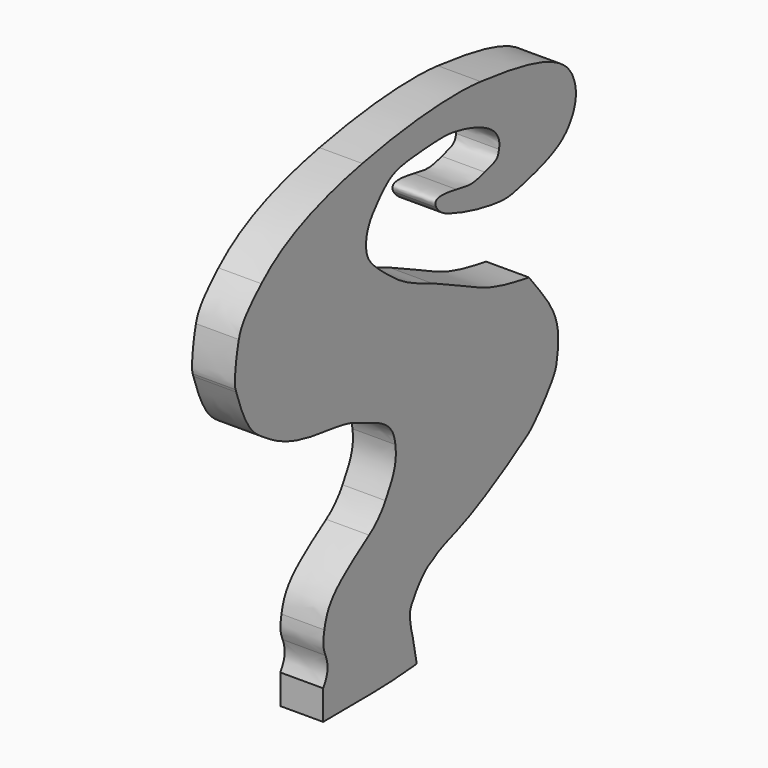
from build123d import *

# Parameters (mm, degrees)
F1_DEPTH = 2.54


with BuildPart() as f1:
    # F0 (on Right) → F1 (new body)
    with BuildSketch(Plane.YZ):
        with BuildLine():
            add(Edge.make_bspline(
                [(4.3062982129, 18.4064569529), (4.4145754331, 17.851669978), (4.5227315225, 17.2993939442), (4.6310087426, 16.7446069692)],
                knots=[0, 0, 0, 0, 1.6932756114, 1.6932756114, 1.6932756114, 1.6932756114], degree=3))
            add(Edge.make_bspline(
                [(4.1593257549, 19.1126760485), (4.2081809899, 18.7562347142), (4.274320241, 18.4384364203), (4.3062982129, 18.4064569529)],
                knots=[0, 0, 0, 0, 1, 1, 1, 1], degree=3))
            add(Edge.make_bspline(
                [(4.587080479, 20.5390156251), (4.1199305204, 19.8352235894), (4.0789979985, 19.6987369871), (4.1593257549, 19.1126760485)],
                knots=[0, 0, 0, 0, 1, 1, 1, 1], degree=3))
            add(Edge.make_bspline(
                [(5.5515264837, 21.5446767853), (5.3052015891, 21.4196091783), (4.8712005131, 20.9670619552), (4.587080479, 20.5390156251)],
                knots=[0, 0, 0, 0, 1, 1, 1, 1], degree=3))
            add(Edge.make_bspline(
                [(6.1705583504, 21.9085323912), (6.0764144472, 21.8334789664), (5.7978513782, 21.6697458878), (5.5515264837, 21.5446767853)],
                knots=[0, 0, 0, 0, 1, 1, 1, 1], degree=3))
            add(Edge.make_bspline(
                [(7.6551638138, 22.5023530426), (6.9327747869, 22.2508031651), (6.2647022536, 21.9835843206), (6.1705583504, 21.9085323912)],
                knots=[0, 0, 0, 0, 1, 1, 1, 1], degree=3))
            add(Edge.make_bspline(
                [(12.8379490604, 25.3474205293), (11.0188744075, 24.1153788353), (8.8182758107, 22.907369969), (7.6551638138, 22.5023530426)],
                knots=[0, 0, 0, 0, 1, 1, 1, 1], degree=3))
            add(Edge.make_bspline(
                [(14.1645862732, 26.7650134187), (13.7263112988, 26.182685038), (13.1293263476, 25.5447690602), (12.8379490604, 25.3474205293)],
                knots=[0, 0, 0, 0, 1, 1, 1, 1], degree=3))
            add(Edge.make_bspline(
                [(15.0707260149, 28.8437191762), (14.9687566007, 27.8920215914), (14.9081429111, 27.7529688556), (14.1645862732, 26.7650134187)],
                knots=[0, 0, 0, 0, 1, 1, 1, 1], degree=3))
            add(Edge.make_bspline(
                [(13.7717031507, 32.4500579966), (14.9154480174, 30.9995061424), (15.2131509134, 30.1730242108), (15.0707260149, 28.8437191762)],
                knots=[0, 0, 0, 0, 1, 1, 1, 1], degree=3))
            Line((13.7717031507, 32.4500579966), (12.9332459293, 33.5134287489))
            add(Edge.make_bspline(
                [(5.7822467141, 36.1096769875), (6.3762820613, 35.8425612862), (7.6581101579, 35.2661706512), (10.0985801685, 33.9916505274), (11.9792064067, 33.6743798154), (12.9332459293, 33.5134287489)],
                knots=[0, 0, 0, 0, 0.2985104209, 0.6441351452, 1, 1, 1, 1], degree=3))
            add(Edge.make_bspline(
                [(2.3612512264, 38.0030753022), (3.524023764, 37.060348717), (3.9435058477, 36.828180924), (5.7822467141, 36.1096769875)],
                knots=[0, 0, 0, 0, 1, 1, 1, 1], degree=3))
            add(Edge.make_bspline(
                [(0.8822565632, 40.104596619), (0.8822565632, 39.355544328), (1.1336105412, 38.9983941666), (2.3612512264, 38.0030753022)],
                knots=[0, 0, 0, 0, 1, 1, 1, 1], degree=3))
            add(Edge.make_bspline(
                [(1.8150057341, 42.0706138216), (1.1379322929, 41.3211757133), (0.8822565632, 40.7822712173), (0.8822565632, 40.104596619)],
                knots=[0, 0, 0, 0, 1, 1, 1, 1], degree=3))
            add(Edge.make_bspline(
                [(5.130764324, 43.3401306362), (3.05388746, 43.1938311152), (2.7112413368, 43.0626412758), (1.8150057341, 42.0706138216)],
                knots=[0, 0, 0, 0, 1, 1, 1, 1], degree=3))
            add(Edge.make_bspline(
                [(8.0668398269, 43.2044874484), (7.1214319611, 43.4407407174), (6.7817796603, 43.4564321157), (5.130764324, 43.3401306362)],
                knots=[0, 0, 0, 0, 1, 1, 1, 1], degree=3))
            add(Edge.make_bspline(
                [(10.7201501424, 41.0876351286), (10.9152779809, 41.9986469351), (10.0136334591, 42.7179927908), (8.0668398269, 43.2044874484)],
                knots=[0, 0, 0, 0, 1, 1, 1, 1], degree=3))
            add(Edge.make_bspline(
                [(9.665690573, 40.3289329193), (10.5618693499, 40.5852172833), (10.6217697262, 40.6283181582), (10.7201501424, 41.0876351286)],
                knots=[0, 0, 0, 0, 1, 1, 1, 1], degree=3))
            add(Edge.make_bspline(
                [(7.5720919693, 40.2786809659), (8.6570311041, 40.0685451343), (8.7641507304, 40.0711157541), (9.665690573, 40.3289329193)],
                knots=[0, 0, 0, 0, 1, 1, 1, 1], degree=3))
            add(Edge.make_bspline(
                [(6.0726310451, 39.9564846541), (5.8181157581, 40.4320493175), (6.2742280524, 40.5300558798), (7.5720919693, 40.2786809659)],
                knots=[0, 0, 0, 0, 1, 1, 1, 1], degree=3))
            add(Edge.make_bspline(
                [(6.5300473421, 39.4837029595), (6.3592693595, 39.5927561585), (6.153431353, 39.8055074725), (6.0726310451, 39.9564846541)],
                knots=[0, 0, 0, 0, 1, 1, 1, 1], degree=3))
            add(Edge.make_bspline(
                [(10.1351419765, 38.422938717), (8.9017319771, 38.5991465544), (7.0723090467, 39.1374364346), (6.5300473421, 39.4837029595)],
                knots=[0, 0, 0, 0, 1, 1, 1, 1], degree=3))
            add(Edge.make_bspline(
                [(12.5184609466, 38.5560277345), (11.4262137148, 38.2780015199), (11.2273892084, 38.2668980574), (10.1351419765, 38.422938717)],
                knots=[0, 0, 0, 0, 1, 1, 1, 1], degree=3))
            add(Edge.make_bspline(
                [(15.8478038939, 40.1600989773), (15.3262417352, 39.4728148369), (14.4370196327, 39.0443901666), (12.5184609466, 38.5560277345)],
                knots=[0, 0, 0, 0, 1, 1, 1, 1], degree=3))
            add(Edge.make_bspline(
                [(16.1916538269, 42.665268915), (16.5742081122, 41.8004400355), (16.459741508, 40.9664720523), (15.8478038939, 40.1600989773)],
                knots=[0, 0, 0, 0, 1, 1, 1, 1], degree=3))
            add(Edge.make_bspline(
                [(9.3640681921, 45.169465337), (13.687454414, 44.6991854732), (15.6026887907, 43.9967228622), (16.1916538269, 42.665268915)],
                knots=[0, 0, 0, 0, 1, 1, 1, 1], degree=3))
            add(Edge.make_bspline(
                [(0.6018660961, 44.4634840126), (3.9265493277, 45.1443049658), (7.1831702034, 45.4066951126), (9.3640681921, 45.169465337)],
                knots=[0, 0, 0, 0, 1, 1, 1, 1], degree=3))
            add(Edge.make_bspline(
                [(-6.869657556, 41.234824422), (-5.2947947751, 42.7188122786), (-2.9319959009, 43.7398283685), (0.6018660961, 44.4634840126)],
                knots=[0, 0, 0, 0, 1, 1, 1, 1], degree=3))
            add(Edge.make_bspline(
                [(-8.5345189474, 39.0052730794), (-8.3623113473, 39.6899925817), (-8.0137224416, 40.156818035), (-6.869657556, 41.234824422)],
                knots=[0, 0, 0, 0, 1, 1, 1, 1], degree=3))
            add(Edge.make_bspline(
                [(-8.7753407118, 36.4924825027), (-8.8935279106, 36.8100804109), (-8.7745930039, 38.0504859655), (-8.5345189474, 39.0052730794)],
                knots=[0, 0, 0, 0, 1, 1, 1, 1], degree=3))
            add(Edge.make_bspline(
                [(-8.7281162361, 36.3415613512), (-8.7359523782, 36.3815132341), (-8.7524901075, 36.4310764124), (-8.7753407118, 36.4924825027)],
                knots=[0.7856250085, 0.7856250085, 0.7856250085, 0.7856250085, 1, 1, 1, 1], degree=3))
            add(Edge.make_bspline(
                [(-8.7281162361, 36.3415613512), (-8.6458521412, 36.079976454), (-8.4223909985, 35.3950724639), (-7.7740737011, 33.9365337451), (-7.1033373756, 33.4345247336), (-6.8248215993, 33.2504152378)],
                knots=[0.0477039482, 0.0477039482, 0.0477039482, 0.0477039482, 0.2946798893, 0.6733320976, 0.9307398592, 0.9307398592, 0.9307398592, 0.9307398592], degree=3))
            add(Edge.make_bspline(
                [(-6.5989783193, 33.1045596313), (-6.6784388414, 33.1576214869), (-6.7534797046, 33.2061446456), (-6.8248215993, 33.2504152378)],
                knots=[0, 0, 0, 0, 0.1293994473, 0.1293994473, 0.1293994473, 0.1293994473], degree=3))
            add(Edge.make_bspline(
                [(-1.7070350009, 31.5580125491), (-4.1254349308, 31.8328086656), (-5.2061584884, 32.1744708052), (-6.5989783193, 33.1045596313)],
                knots=[0, 0, 0, 0, 1, 1, 1, 1], degree=3))
            add(Edge.make_bspline(
                [(-0.0876372414, 31.2203327018), (-0.3512072712, 31.3347993061), (-1.0799368612, 31.4867544896), (-1.7070350009, 31.5580125491)],
                knots=[0, 0, 0, 0, 1, 1, 1, 1], degree=3))
            add(Edge.make_bspline(
                [(1.2231171599, 30.6940734419), (0.7657711475, 30.8690505521), (0.1759312931, 31.1058660975), (-0.0876372414, 31.2203327018)],
                knots=[0, 0, 0, 0, 1, 1, 1, 1], degree=3))
            add(Edge.make_bspline(
                [(3.0494864513, 28.81478288), (2.9324193189, 29.7517625823), (2.4863203289, 30.2107879467), (1.2231171599, 30.6940734419)],
                knots=[0, 0, 0, 0, 1, 1, 1, 1], degree=3))
            add(Edge.make_bspline(
                [(2.3150428774, 26.1949070715), (3.0131418651, 27.3668106181), (3.1634206875, 27.9028798057), (3.0494864513, 28.81478288)],
                knots=[0, 0, 0, 0, 1, 1, 1, 1], degree=3))
            add(Edge.make_bspline(
                [(1.1052768976, 24.8880422468), (1.5894491744, 25.2096807685), (1.9785115095, 25.6299688814), (2.3150428774, 26.1949070715)],
                knots=[0, 0, 0, 0, 1, 1, 1, 1], degree=3))
            add(Edge.make_bspline(
                [(-2.2063049959, 21.2954821878), (-1.9664672152, 22.606247057), (-1.3928810353, 23.228498554), (1.1052768976, 24.8880422468)],
                knots=[0, 0, 0, 0, 1, 1, 1, 1], degree=3))
            add(Edge.make_bspline(
                [(-2.1212277989, 19.9286152985), (-2.3103276161, 20.4012205339), (-2.3254582334, 20.6443003762), (-2.2063049959, 21.2954821878)],
                knots=[0, 0, 0, 0, 1, 1, 1, 1], degree=3))
            add(Edge.make_bspline(
                [(-2.29458986, 18.2876431748), (-1.924623985, 18.8522822818), (-1.8757343555, 19.3150626353), (-2.1212277989, 19.9286152985)],
                knots=[0, 0, 0, 0, 1, 1, 1, 1], degree=3))
            add(Edge.make_bspline(
                [(-2.29458986, 18.2876431748), (-2.29458986, 17.7030911022), (-2.29458986, 17.1185390296), (-2.29458986, 16.533986957)],
                knots=[0, 0, 0, 0, 1.7536562178, 1.7536562178, 1.7536562178, 1.7536562178], degree=3))
            add(Edge.make_bspline(
                [(-0.0965289838, 16.5494406097), (-0.8129556754, 16.5571901602), (-1.5605586109, 16.551185881), (-2.29458986, 16.533986957)],
                knots=[0, 0, 0, 0, 0.2456952601, 0.2456952601, 0.2456952601, 0.2456952601], degree=3))
            add(Edge.make_bspline(
                [(3.8289375551, 16.681698176), (3.0978347403, 16.5935120095), (1.3313747977, 16.5339959551), (-0.0965289838, 16.5494406097)],
                knots=[0, 0, 0, 0, 1, 1, 1, 1], degree=3))
            add(Edge.make_bspline(
                [(4.6310087426, 16.7446069692), (4.3124459161, 16.729239125), (4.0494007129, 16.7082907732), (3.8289375551, 16.681698176)],
                knots=[0.7704771185, 0.7704771185, 0.7704771185, 0.7704771185, 1, 1, 1, 1], degree=3))
        make_face()
    extrude(amount=F1_DEPTH)


solid = f1.part
